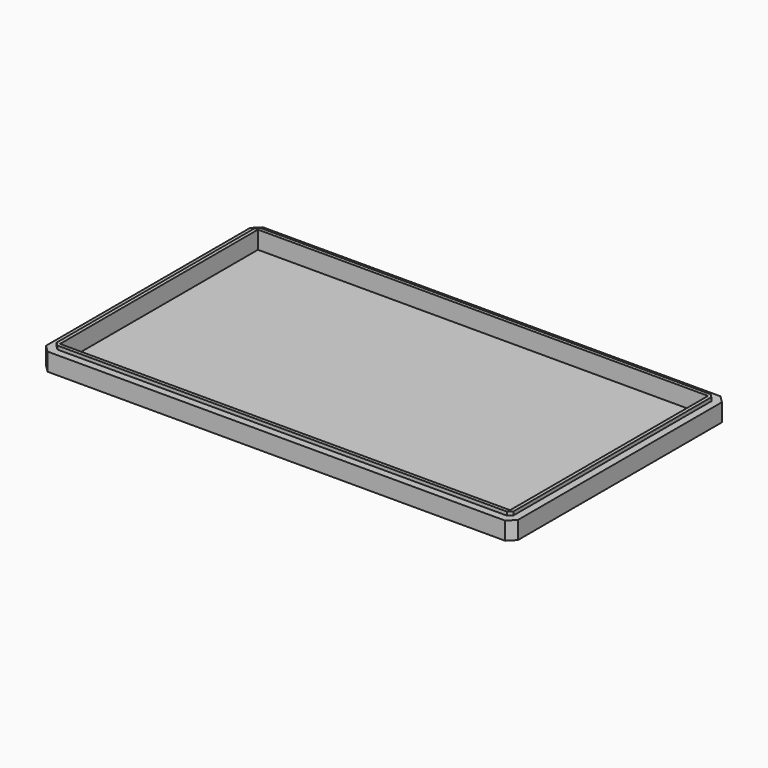
from build123d import *

# Parameters (mm, degrees)
F0_W     = 128.72
F0_H     = 71.64
F0_W_2   = 126.8
F0_H_2   = 69.72
F1_DEPTH = 6
F0_W_3   = 132.92
F0_H_3   = 75.84
F2_DEPTH = 5
F3_DEPTH = 1
F5_SIZE  = 1
F6_SIZE  = 2


with BuildPart() as f1:
    # F0 (on Top) → F1 (new body)
    with BuildSketch(Plane.XY):
        with Locations((9.5820501447, 3.493278903)):
            Rectangle(F0_W, F0_H)
        with Locations((9.5820501447, 3.493278903)):
            Rectangle(F0_W_2, F0_H_2, mode=Mode.SUBTRACT)
    extrude(amount=F1_DEPTH)

    # F0 (on Top) → F2 (join)
    with BuildSketch(Plane.XY):
        with Locations((9.5820501447, 3.493278903)):
            Rectangle(F0_W_3, F0_H_3)
        with Locations((9.5820501447, 3.493278903)):
            Rectangle(F0_W, F0_H, mode=Mode.SUBTRACT)
    extrude(amount=F2_DEPTH)

    # F0 (on Top) → F3 (join)
    with BuildSketch(Plane.XY):
        with Locations((9.5820501447, 3.493278903)):
            Rectangle(F0_W_2, F0_H_2)
    extrude(amount=F3_DEPTH)


with BuildPart() as f1_1:
    # F4: moved
    add(f1.part.moved(Location((-10, 0, 0))))

    # F5
    f5_edges = [f1_1.edges().sort_by_distance(p)[0] for p in [
        (-64.77795, -32.326721, 5.5),
        (63.94205, -32.326721, 5.5),
        (63.94205, 39.313279, 5.5),
        (-64.77795, 39.313279, 5.5),
    ]]
    chamfer(f5_edges, length=F5_SIZE)

    # F6
    f6_edges = [f1_1.edges().sort_by_distance(p)[0] for p in [
        (-66.87795, 41.413279, 2.5),
        (-66.87795, -34.426721, 2.5),
        (66.04205, -34.426721, 2.5),
        (66.04205, 41.413279, 2.5),
    ]]
    chamfer(f6_edges, length=F6_SIZE)


solid = f1_1.part
